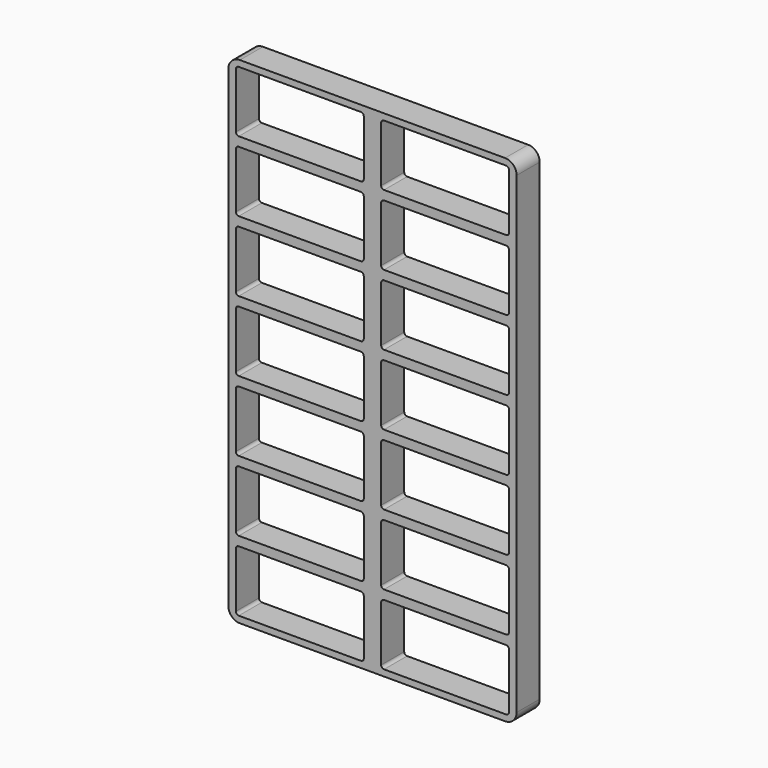
from build123d import *

# Parameters (mm, degrees)
F1_DEPTH = 6.35
F3_DEPTH = 6.351


with BuildPart() as f1:
    # F0 (on Front) → F1 (new body)
    with BuildSketch(Plane.XZ):
        with BuildLine():
            ThreePointArc((-31.75, -52.07), (-31.006051, -53.866051), (-29.21, -54.61))
            Line((-29.21, -54.61), (29.21, -54.61))
            ThreePointArc((29.21, -54.61), (31.006051, -53.866051), (31.75, -52.07))
            Line((31.75, -52.07), (31.75, 52.07))
            ThreePointArc((31.75, 52.07), (31.006051, 53.866051), (29.21, 54.61))
            Line((29.21, 54.61), (-29.21, 54.61))
            ThreePointArc((-29.21, 54.61), (-31.006051, 53.866051), (-31.75, 52.07))
            Line((-31.75, 52.07), (-31.75, -52.07))
        make_face()
    extrude(amount=F1_DEPTH)

    # F2 (on face) → F3 (cut, through all)
    with BuildSketch(Plane.XZ.offset(6.35)):
        with BuildLine():
            Line((-29.4513, 39.751), (-2.5527, 39.751))
            ThreePointArc((-2.5527, 39.751), (-2.103687, 39.936987), (-1.9177, 40.386))
            Line((-1.9177, 40.386), (-1.9177, 52.578))
            ThreePointArc((-1.9177, 52.578), (-2.103687, 53.027013), (-2.5527, 53.213))
            Line((-2.5527, 53.213), (-29.4513, 53.213))
            ThreePointArc((-29.4513, 53.213), (-29.900313, 53.027013), (-30.0863, 52.578))
            Line((-30.0863, 52.578), (-30.0863, 40.386))
            ThreePointArc((-30.0863, 40.386), (-29.900313, 39.936987), (-29.4513, 39.751))
        make_face()
        with BuildLine():
            Line((-30.0863, 37.084), (-30.0863, 24.892))
            ThreePointArc((-30.0863, 24.892), (-29.900313, 24.442987), (-29.4513, 24.257))
            Line((-29.4513, 24.257), (-2.5527, 24.257))
            ThreePointArc((-2.5527, 24.257), (-2.103687, 24.442987), (-1.9177, 24.892))
            Line((-1.9177, 24.892), (-1.9177, 37.084))
            ThreePointArc((-1.9177, 37.084), (-2.103687, 37.533013), (-2.5527, 37.719))
            Line((-2.5527, 37.719), (-29.4513, 37.719))
            ThreePointArc((-29.4513, 37.719), (-29.900313, 37.533013), (-30.0863, 37.084))
        make_face()
        with BuildLine():
            Line((-30.0863, 21.59), (-30.0863, 9.398))
            ThreePointArc((-30.0863, 9.398), (-29.900313, 8.948987), (-29.4513, 8.763))
            Line((-29.4513, 8.763), (-2.5527, 8.763))
            ThreePointArc((-2.5527, 8.763), (-2.103687, 8.948987), (-1.9177, 9.398))
            Line((-1.9177, 9.398), (-1.9177, 21.59))
            ThreePointArc((-1.9177, 21.59), (-2.103687, 22.039013), (-2.5527, 22.225))
            Line((-2.5527, 22.225), (-29.4513, 22.225))
            ThreePointArc((-29.4513, 22.225), (-29.900313, 22.039013), (-30.0863, 21.59))
        make_face()
        with BuildLine():
            Line((-30.0863, 6.096), (-30.0863, -6.096))
            ThreePointArc((-30.0863, -6.096), (-29.900313, -6.545013), (-29.4513, -6.731))
            Line((-29.4513, -6.731), (-2.5527, -6.731))
            ThreePointArc((-2.5527, -6.731), (-2.103687, -6.545013), (-1.9177, -6.096))
            Line((-1.9177, -6.096), (-1.9177, 6.096))
            ThreePointArc((-1.9177, 6.096), (-2.103687, 6.545013), (-2.5527, 6.731))
            Line((-2.5527, 6.731), (-29.4513, 6.731))
            ThreePointArc((-29.4513, 6.731), (-29.900313, 6.545013), (-30.0863, 6.096))
        make_face()
        with BuildLine():
            Line((-30.0863, -9.398), (-30.0863, -21.59))
            ThreePointArc((-30.0863, -21.59), (-29.900313, -22.039013), (-29.4513, -22.225))
            Line((-29.4513, -22.225), (-2.5527, -22.225))
            ThreePointArc((-2.5527, -22.225), (-2.103687, -22.039013), (-1.9177, -21.59))
            Line((-1.9177, -21.59), (-1.9177, -9.398))
            ThreePointArc((-1.9177, -9.398), (-2.103687, -8.948987), (-2.5527, -8.763))
            Line((-2.5527, -8.763), (-29.4513, -8.763))
            ThreePointArc((-29.4513, -8.763), (-29.900313, -8.948987), (-30.0863, -9.398))
        make_face()
        with BuildLine():
            Line((-30.0863, -24.892), (-30.0863, -37.084))
            ThreePointArc((-30.0863, -37.084), (-29.900313, -37.533013), (-29.4513, -37.719))
            Line((-29.4513, -37.719), (-2.5527, -37.719))
            ThreePointArc((-2.5527, -37.719), (-2.103687, -37.533013), (-1.9177, -37.084))
            Line((-1.9177, -37.084), (-1.9177, -24.892))
            ThreePointArc((-1.9177, -24.892), (-2.103687, -24.442987), (-2.5527, -24.257))
            Line((-2.5527, -24.257), (-29.4513, -24.257))
            ThreePointArc((-29.4513, -24.257), (-29.900313, -24.442987), (-30.0863, -24.892))
        make_face()
        with BuildLine():
            Line((-30.0863, -40.386), (-30.0863, -52.578))
            ThreePointArc((-30.0863, -52.578), (-29.900313, -53.027013), (-29.4513, -53.213))
            Line((-29.4513, -53.213), (-2.5527, -53.213))
            ThreePointArc((-2.5527, -53.213), (-2.103687, -53.027013), (-1.9177, -52.578))
            Line((-1.9177, -52.578), (-1.9177, -40.386))
            ThreePointArc((-1.9177, -40.386), (-2.103687, -39.936987), (-2.5527, -39.751))
            Line((-2.5527, -39.751), (-29.4513, -39.751))
            ThreePointArc((-29.4513, -39.751), (-29.900313, -39.936987), (-30.0863, -40.386))
        make_face()
        with BuildLine():
            Line((1.9177, 52.578), (1.9177, 40.386))
            ThreePointArc((1.9177, 40.386), (2.103687, 39.936987), (2.5527, 39.751))
            Line((2.5527, 39.751), (29.4513, 39.751))
            ThreePointArc((29.4513, 39.751), (29.900313, 39.936987), (30.0863, 40.386))
            Line((30.0863, 40.386), (30.0863, 52.578))
            ThreePointArc((30.0863, 52.578), (29.900313, 53.027013), (29.4513, 53.213))
            Line((29.4513, 53.213), (2.5527, 53.213))
            ThreePointArc((2.5527, 53.213), (2.103687, 53.027013), (1.9177, 52.578))
        make_face()
        with BuildLine():
            Line((1.9177, 37.084), (1.9177, 24.892))
            ThreePointArc((1.9177, 24.892), (2.103687, 24.442987), (2.5527, 24.257))
            Line((2.5527, 24.257), (29.4513, 24.257))
            ThreePointArc((29.4513, 24.257), (29.900313, 24.442987), (30.0863, 24.892))
            Line((30.0863, 24.892), (30.0863, 37.084))
            ThreePointArc((30.0863, 37.084), (29.900313, 37.533013), (29.4513, 37.719))
            Line((29.4513, 37.719), (2.5527, 37.719))
            ThreePointArc((2.5527, 37.719), (2.103687, 37.533013), (1.9177, 37.084))
        make_face()
        with BuildLine():
            Line((1.9177, 21.59), (1.9177, 9.398))
            ThreePointArc((1.9177, 9.398), (2.103687, 8.948987), (2.5527, 8.763))
            Line((2.5527, 8.763), (29.4513, 8.763))
            ThreePointArc((29.4513, 8.763), (29.900313, 8.948987), (30.0863, 9.398))
            Line((30.0863, 9.398), (30.0863, 21.59))
            ThreePointArc((30.0863, 21.59), (29.900313, 22.039013), (29.4513, 22.225))
            Line((29.4513, 22.225), (2.5527, 22.225))
            ThreePointArc((2.5527, 22.225), (2.103687, 22.039013), (1.9177, 21.59))
        make_face()
        with BuildLine():
            Line((1.9177, 6.096), (1.9177, -6.096))
            ThreePointArc((1.9177, -6.096), (2.103687, -6.545013), (2.5527, -6.731))
            Line((2.5527, -6.731), (29.4513, -6.731))
            ThreePointArc((29.4513, -6.731), (29.900313, -6.545013), (30.0863, -6.096))
            Line((30.0863, -6.096), (30.0863, 6.096))
            ThreePointArc((30.0863, 6.096), (29.900313, 6.545013), (29.4513, 6.731))
            Line((29.4513, 6.731), (2.5527, 6.731))
            ThreePointArc((2.5527, 6.731), (2.103687, 6.545013), (1.9177, 6.096))
        make_face()
        with BuildLine():
            Line((1.9177, -9.398), (1.9177, -21.59))
            ThreePointArc((1.9177, -21.59), (2.103687, -22.039013), (2.5527, -22.225))
            Line((2.5527, -22.225), (29.4513, -22.225))
            ThreePointArc((29.4513, -22.225), (29.900313, -22.039013), (30.0863, -21.59))
            Line((30.0863, -21.59), (30.0863, -9.398))
            ThreePointArc((30.0863, -9.398), (29.900313, -8.948987), (29.4513, -8.763))
            Line((29.4513, -8.763), (2.5527, -8.763))
            ThreePointArc((2.5527, -8.763), (2.103687, -8.948987), (1.9177, -9.398))
        make_face()
        with BuildLine():
            Line((1.9177, -24.892), (1.9177, -37.084))
            ThreePointArc((1.9177, -37.084), (2.103687, -37.533013), (2.5527, -37.719))
            Line((2.5527, -37.719), (29.4513, -37.719))
            ThreePointArc((29.4513, -37.719), (29.900313, -37.533013), (30.0863, -37.084))
            Line((30.0863, -37.084), (30.0863, -24.892))
            ThreePointArc((30.0863, -24.892), (29.900313, -24.442987), (29.4513, -24.257))
            Line((29.4513, -24.257), (2.5527, -24.257))
            ThreePointArc((2.5527, -24.257), (2.103687, -24.442987), (1.9177, -24.892))
        make_face()
        with BuildLine():
            Line((1.9177, -40.386), (1.9177, -52.578))
            ThreePointArc((1.9177, -52.578), (2.103687, -53.027013), (2.5527, -53.213))
            Line((2.5527, -53.213), (29.4513, -53.213))
            ThreePointArc((29.4513, -53.213), (29.900313, -53.027013), (30.0863, -52.578))
            Line((30.0863, -52.578), (30.0863, -40.386))
            ThreePointArc((30.0863, -40.386), (29.900313, -39.936987), (29.4513, -39.751))
            Line((29.4513, -39.751), (2.5527, -39.751))
            ThreePointArc((2.5527, -39.751), (2.103687, -39.936987), (1.9177, -40.386))
        make_face()
    extrude(amount=-F3_DEPTH, mode=Mode.SUBTRACT)


solid = f1.part
